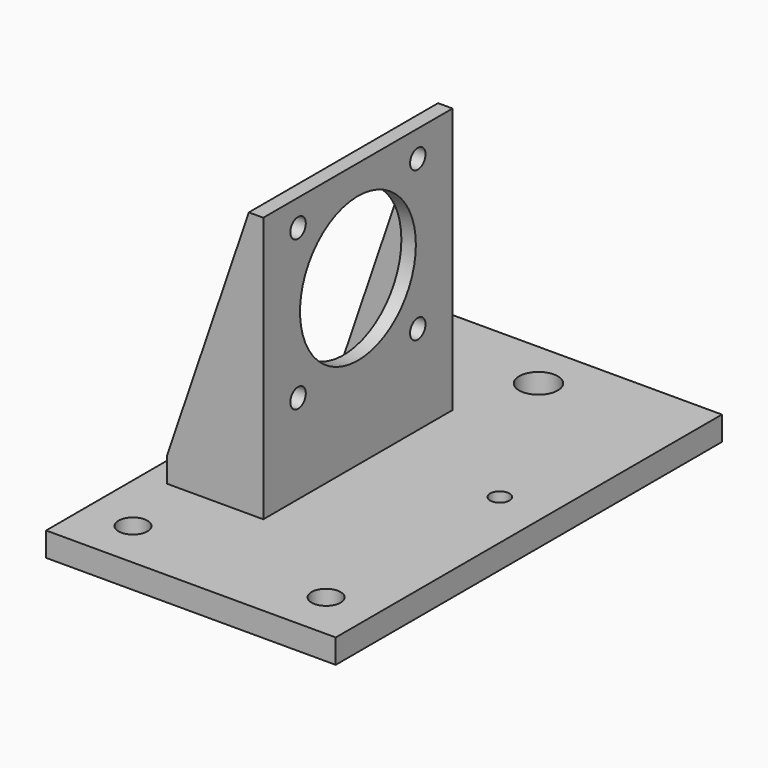
from build123d import *

# Parameters (mm, degrees)
F0_W     = 60
F0_H     = 100
F0_R     = 3
F0_R_2   = 2
F0_R_3   = 4
F1_DEPTH = 5
F3_DEPTH = 55
F5_DEPTH = 75.001
F6_R     = 15
F6_R_2   = 2
F7_DEPTH = 25.001


with BuildPart() as f1:
    # F0 (on Top) → F1 (new body)
    with BuildSketch(Plane.XY):
        with Locations((30, 50)):
            Rectangle(F0_W, F0_H)
        with Locations((10, 10)):
            Circle(F0_R, mode=Mode.SUBTRACT)
        with Locations((50, 10)):
            Circle(F0_R, mode=Mode.SUBTRACT)
        with Locations((10, 55)):
            Circle(F0_R_2, mode=Mode.SUBTRACT)
        with Locations((50, 55)):
            Circle(F0_R_2, mode=Mode.SUBTRACT)
        with Locations((30, 90)):
            Circle(F0_R_3, mode=Mode.SUBTRACT)
    extrude(amount=F1_DEPTH)

    # F2 (on face) → F3 (join)
    with BuildSketch(Plane.XY.offset(5)):
        Polygon((25, 74), (5, 74), (5, 71), (22, 71), (22, 28), (5, 28), (5, 25), (25, 25), align=None)
    extrude(amount=F3_DEPTH)

    # F4 (on face) → F5 (cut, through all)
    with BuildSketch(Plane.XZ.offset(-25)):
        Polygon((22, 60), (5, 60), (5, 10), align=None)
    extrude(amount=-F5_DEPTH, mode=Mode.SUBTRACT)

    # F6 (on face) → F7 (cut, through all)
    with BuildSketch(Plane.YZ.offset(25)):
        with Locations((49.5, 39)):
            Circle(F6_R)
        with Locations((34, 54.5)):
            Circle(F6_R_2)
        with Locations((65, 54.5)):
            Circle(F6_R_2)
        with Locations((65, 23.5)):
            Circle(F6_R_2)
        with Locations((34, 23.5)):
            Circle(F6_R_2)
    extrude(amount=-F7_DEPTH, mode=Mode.SUBTRACT)


solid = f1.part
